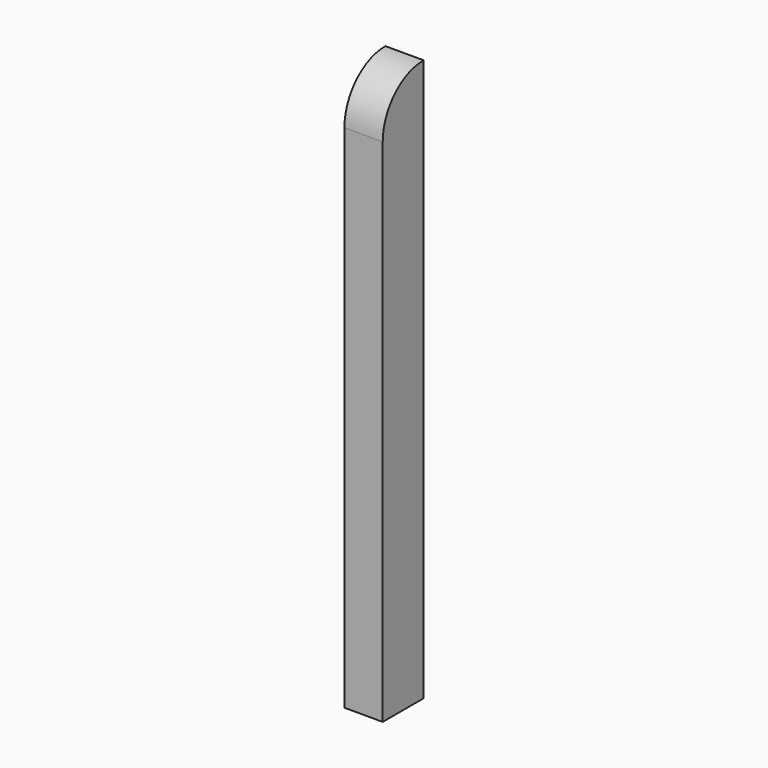
from build123d import *

# Parameters (mm, degrees)
F1_DEPTH = 19.05


with BuildPart() as f1:
    # F0 (on Right) → F1 (new body)
    with BuildSketch(Plane.YZ):
        with BuildLine():
            Line((-106.290568, 137.061662), (-106.290568, -104.238338))
            Line((-106.290568, -104.238338), (-80.890568, -104.238338))
            Line((-80.890568, -104.238338), (-80.890568, 175.161662))
            ThreePointArc((-80.890568, 175.161662), (-98.85108, 167.722174), (-106.290568, 149.761662))
            Line((-106.290568, 149.761662), (-106.290568, 137.061662))
        make_face()
    extrude(amount=F1_DEPTH)


solid = f1.part
